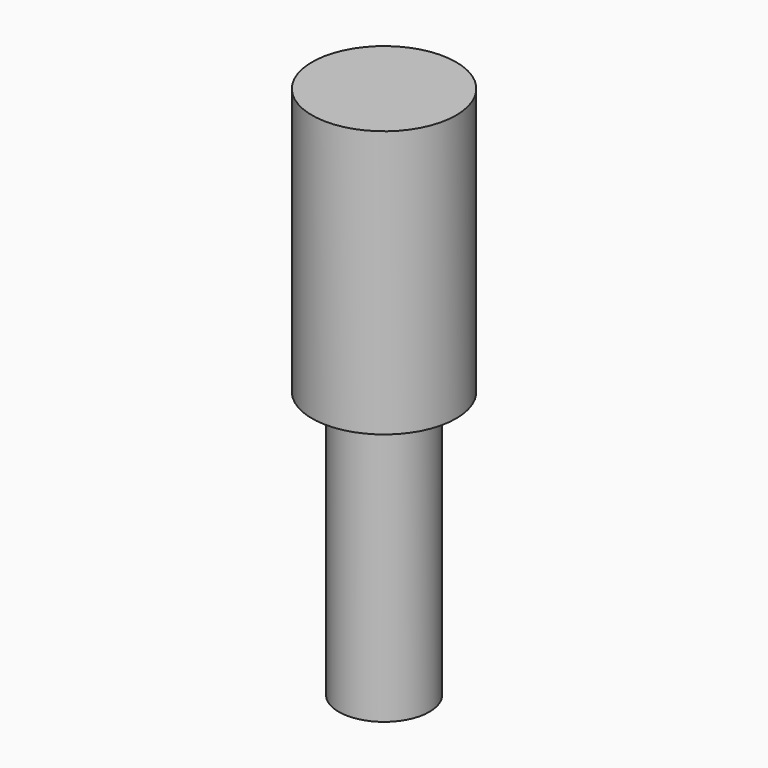
from build123d import *

# Parameters (mm, degrees)
CYLINDER1020_R     = 2.7
CYLINDER1020_DEPTH = 10
CYLINDER1018_R     = 1.7
CYLINDER1018_DEPTH = 10


with BuildPart() as cylinder1015:
    # Cylinder1020 → Cylinder1020 (new body)
    with BuildSketch(Plane.XY.offset(10)):
        Circle(CYLINDER1020_R)
    extrude(amount=CYLINDER1020_DEPTH)


with BuildPart() as m3bolthead:
    # Cylinder1018 → Cylinder1018 (new body)
    with BuildSketch(Plane.XY):
        Circle(CYLINDER1018_R)
    extrude(amount=CYLINDER1018_DEPTH)

    # Fusion024: union Cylinder1015
    add(cylinder1015.part)


solid = m3bolthead.part
